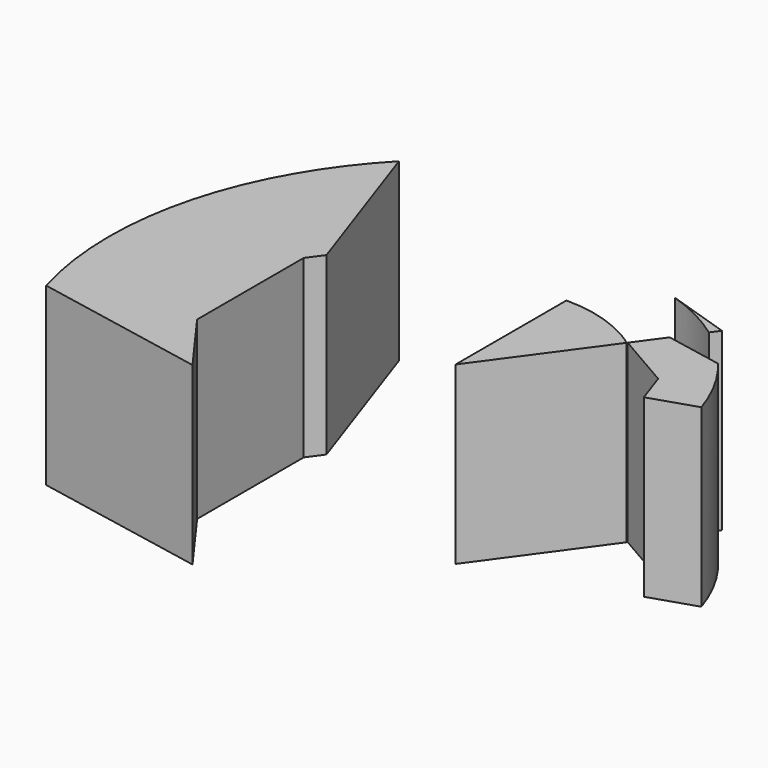
from build123d import *

# Parameters (mm, degrees)
F1_DEPTH = 29.464


with BuildPart() as f1:
    # F0 (on Top) → F1 (new body)
    with BuildSketch(Plane.XY):
        with BuildLine():
            Line((-27.8424609945, -20.2287317001), (-34.4151742756, -11.1821679714))
            Line((-34.4151742756, -11.1821679714), (-34.4151742756, 0))
            Line((-34.4151742756, 0), (-34.4151742756, 11.1821679714))
            Line((-34.4151742756, 11.1821679714), (-32.5999693498, 13.6805832133))
            Line((-32.5999693498, 13.6805832133), (-41.8101035376, 40.3911797196))
            ThreePointArc((-41.8101035376, 40.3911797196), (-46.4242881349, 34.9902504726), (-50.3452987514, 29.066872047))
            ThreePointArc((-50.3452987514, 29.066872047), (-56.1528843928, 15.0461201425), (-58.1337437034, 0))
            ThreePointArc((-58.1337437034, 0), (-57.5687723209, -8.085085679), (-55.8848394948, -16.0130219386))
            Line((-55.8848394948, -16.0130219386), (-26.8085263436, -21.6518206605))
            Line((-26.8085263436, -21.6518206605), (-27.8424609945, -20.2287317001))
        make_face()
    extrude(amount=-F1_DEPTH)


with BuildPart() as f1b:
    # F0 (on Top) → F1, piece 2 (new body)
    with BuildSketch(Plane.XY):
        with BuildLine():
            Line((0, 23.2534967363), (0, 0))
            Line((0, 0), (13.6680624458, 18.8124740383))
            ThreePointArc((13.6680624458, 18.8124740383), (12.6647620453, 19.5020233001), (11.6267484139, 20.138118874))
            ThreePointArc((11.6267484139, 20.138118874), (6.0184478461, 22.4611530423), (0, 23.2534967363))
        make_face()
    extrude(amount=-F1_DEPTH)


with BuildPart() as f1c:
    # F0 (on Top) → F1, piece 3 (new body)
    with BuildSketch(Plane.XY):
        with BuildLine():
            Line((17.0990282966, 23.5347934051), (13.7433499549, 18.9160984046))
            Line((13.7433499549, 18.9160984046), (23.2534967363, 13.4254126003))
            Line((23.2534967363, 13.4254126003), (25.0735900906, 8.1469032757))
            Line((25.0735900906, 8.1469032757), (32.7307757543, 10.6348737155))
            ThreePointArc((32.7307757543, 10.6348737155), (30.6641449331, 15.6241619278), (27.8424611703, 20.2287314581))
            ThreePointArc((27.8424611703, 20.2287314581), (27.3006746835, 20.954173385), (26.7399917303, 21.6651116472))
            Line((26.7399917303, 21.6651116472), (17.0990282966, 23.5347934051))
        make_face()
    extrude(amount=-F1_DEPTH)


with BuildPart() as f1d:
    # F0 (on Top) → F1, piece 4 (new body)
    with BuildSketch(Plane.XY):
        with BuildLine():
            ThreePointArc((10.6348743882, 32.7307755357), (15.6241624831, 30.6641446501), (20.2287318943, 27.8424608534))
            Line((20.2287318943, 27.8424608534), (21.2697474311, 29.2752958171))
            Line((21.2697474311, 29.2752958171), (10.6348743882, 32.7307755357))
        make_face()
    extrude(amount=-F1_DEPTH)


solid = Compound([f1.part, f1b.part, f1c.part, f1d.part])
